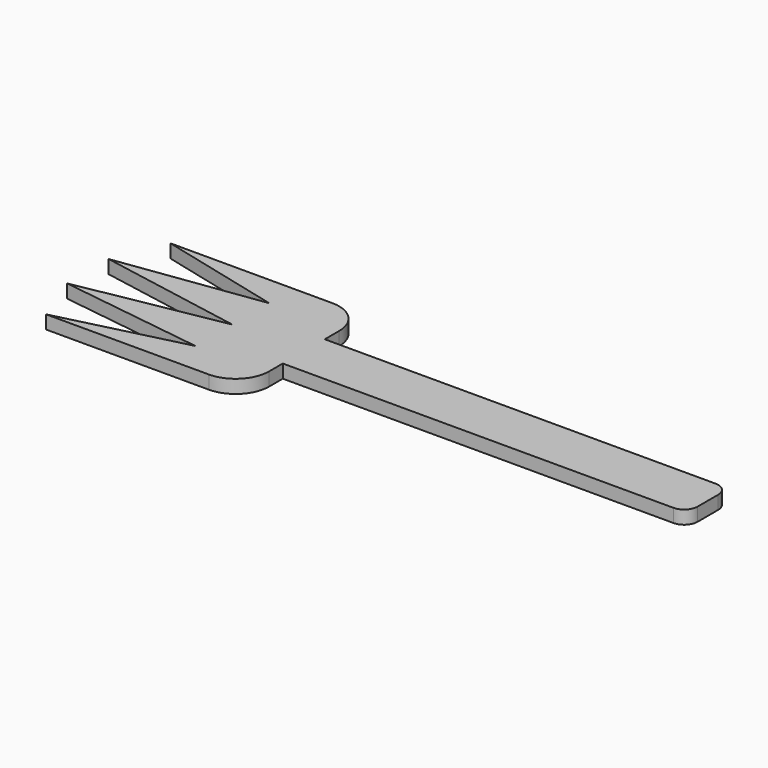
from build123d import *

# Parameters (mm, degrees)
F1_DEPTH = 2.54


with BuildPart() as f1:
    # F0 (on Top) → F1 (new body)
    with BuildSketch(Plane.XY):
        with BuildLine():
            Line((55.32645, 4.882304), (-18.831743, 4.882304))
            Line((-18.831743, 4.882304), (-18.831743, 8.296911))
            ThreePointArc((-18.831743, 8.296911), (-20.691615, 12.787039), (-25.181743, 14.646911))
            Line((-25.181743, 14.646911), (-55.95804, 14.646911))
            Line((-55.95804, 14.646911), (-32.468375, 8.777956))
            Line((-32.468375, 8.777956), (-59.912506, 4.973011))
            Line((-59.912506, 4.973011), (-32.468375, 0))
            Line((-32.468375, 0), (-59.912506, -4.973011))
            Line((-59.912506, -4.973011), (-32.468375, -8.777956))
            Line((-32.468375, -8.777956), (-56.080695, -14.677557))
            Line((-56.080695, -14.677557), (-25.181743, -14.677557))
            ThreePointArc((-25.181743, -14.677557), (-20.691615, -12.817685), (-18.831743, -8.327557))
            Line((-18.831743, -8.327557), (-18.831743, -5.081582))
            Line((-18.831743, -5.081582), (55.32645, -5.081582))
            ThreePointArc((55.32645, -5.081582), (57.122501, -4.337633), (57.86645, -2.541582))
            Line((57.86645, -2.541582), (57.86645, 2.342304))
            ThreePointArc((57.86645, 2.342304), (57.122501, 4.138355), (55.32645, 4.882304))
        make_face()
    extrude(amount=F1_DEPTH)


solid = f1.part
